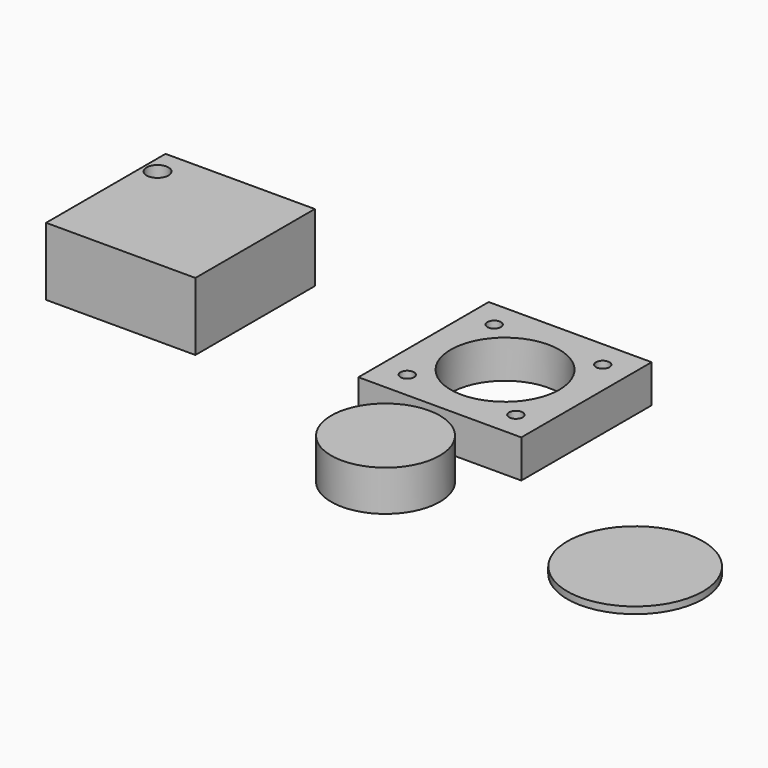
from build123d import *

# Parameters (mm, degrees)
F0_R     = 20
F1_DEPTH = 15
F0_W     = 60
F0_H     = 60
F0_R_2   = 2.5
F2_DEPTH = 14
F0_R_3   = 25
F3_DEPTH = 2.5
F0_W_2   = 55
F0_H_2   = 55
F0_R_4   = 4.030686
F4_DEPTH = 25


with BuildPart() as f1:
    # F0 (on Top) → F1 (new body)
    with BuildSketch(Plane.XY):
        Circle(F0_R)
    extrude(amount=F1_DEPTH)


with BuildPart() as f2:
    # F0 (on Top) → F2 (new body)
    with BuildSketch(Plane.XY):
        with Locations((0, 55.024605)):
            Rectangle(F0_W, F0_H)
        with Locations((-20, 35.024605)):
            Circle(F0_R_2, mode=Mode.SUBTRACT)
        with Locations((-20, 75.024605)):
            Circle(F0_R_2, mode=Mode.SUBTRACT)
        with Locations((20, 35.024605)):
            Circle(F0_R_2, mode=Mode.SUBTRACT)
        with Locations((0, 55.024605)):
            Circle(F0_R, mode=Mode.SUBTRACT)
        with Locations((20, 75.024605)):
            Circle(F0_R_2, mode=Mode.SUBTRACT)
    extrude(amount=F2_DEPTH)


with BuildPart() as f3:
    # F0 (on Top) → F3 (new body)
    with BuildSketch(Plane.XY):
        with Locations((91.956377, 0)):
            Circle(F0_R_3)
    extrude(amount=F3_DEPTH)


with BuildPart() as f4:
    # F0 (on Top) → F4 (new body)
    with BuildSketch(Plane.XY):
        with Locations((-119.55893, 55.024605)):
            Rectangle(F0_W_2, F0_H_2)
        with Locations((-142.005801, 72.524605)):
            Circle(F0_R_4, mode=Mode.SUBTRACT)
    extrude(amount=F4_DEPTH)


solid = Compound([f1.part, f2.part, f3.part, f4.part])
